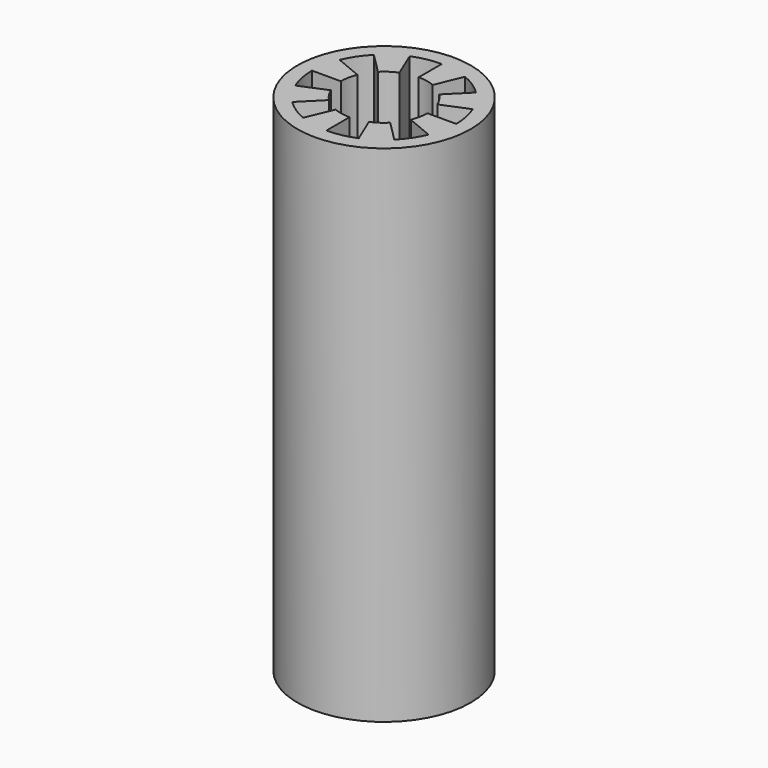
from build123d import *

# Parameters (mm, degrees)
F0_R     = 6
F1_DEPTH = 35


with BuildPart() as f1:
    # F0 (on Top) → F1 (new body)
    with BuildSketch(Plane.XY):
        Circle(F0_R)
        with BuildLine():
            ThreePointArc((4.6228711056, 1.9050099058), (4.9048116951, 0.9709903378), (5, 0))
            ThreePointArc((5, 0), (4.9033062853, -0.9785639848), (4.6169650111, -1.9192795748))
            ThreePointArc((4.6169650111, -1.9192795748), (4.1556339553, -2.7804147945), (3.5356607073, -3.5354071))
            ThreePointArc((3.5356607073, -3.5354071), (2.7868523196, -4.1513195672), (1.9332513544, -4.6111320954))
            ThreePointArc((1.9332513544, -4.6111320954), (0.9859866944, -4.9018190744), (0, -5))
            ThreePointArc((0, -5), (-0.9785639848, -4.9033062853), (-1.9192795748, -4.6169650111))
            ThreePointArc((-1.9192795748, -4.6169650111), (-2.7804147945, -4.1556339553), (-3.5354071, -3.5356607073))
            ThreePointArc((-3.5354071, -3.5356607073), (-4.1513195672, -2.7868523196), (-4.6111320954, -1.9332513544))
            ThreePointArc((-4.6111320954, -1.9332513544), (-4.9018190744, -0.9859866944), (-5, 0))
            ThreePointArc((-5, 0), (-4.9033062853, 0.9785639848), (-4.6169650111, 1.9192795748))
            ThreePointArc((-4.6169650111, 1.9192795748), (-4.1556339553, 2.7804147945), (-3.5356607073, 3.5354071))
            ThreePointArc((-3.5356607073, 3.5354071), (-2.7817807706, 4.1547196951), (-1.9219836353, 4.61584))
            ThreePointArc((-1.9219836353, 4.61584), (-0.98, 4.9030194778), (0, 5))
            ThreePointArc((0, 5), (0.9785639848, 4.9033062853), (1.9192795748, 4.6169650111))
            ThreePointArc((1.9192795748, 4.6169650111), (2.7804147945, 4.1556339553), (3.5354071, 3.5356607073))
            ThreePointArc((3.5354071, 3.5356607073), (4.1598234733, 2.7741428714), (4.6228711056, 1.9050099058))
        make_face(mode=Mode.SUBTRACT)
        with BuildLine():
            Line((-3.5356607073, 3.5354071), (-2.1213964244, 2.12124426))
            ThreePointArc((-2.1213964244, 2.12124426), (-1.6690684623, 2.492831817), (-1.1531901812, 2.769504))
            Line((-1.1531901812, 2.769504), (-1.9219836353, 4.61584))
            ThreePointArc((-1.9219836353, 4.61584), (-2.7817807706, 4.1547196951), (-3.5356607073, 3.5354071))
        make_face()
        with BuildLine():
            Line((1.1515677449, 2.7701790067), (1.9192795748, 4.6169650111))
            ThreePointArc((1.9192795748, 4.6169650111), (0.9785639848, 4.9033062853), (0, 5))
            Line((0, 5), (0, 3))
            ThreePointArc((0, 3), (0.5871383909, 2.9419837712), (1.1515677449, 2.7701790067))
        make_face()
        with BuildLine():
            Line((2.7737226634, 1.1430059435), (4.6228711056, 1.9050099058))
            ThreePointArc((4.6228711056, 1.9050099058), (4.1598234733, 2.7741428714), (3.5354071, 3.5356607073))
            Line((3.5354071, 3.5356607073), (2.12124426, 2.1213964244))
            ThreePointArc((2.12124426, 2.1213964244), (2.495894084, 1.6644857228), (2.7737226634, 1.1430059435))
        make_face()
        with BuildLine():
            Line((-5, 0), (-3, 0))
            ThreePointArc((-3, 0), (-2.9419837712, 0.5871383909), (-2.7701790067, 1.1515677449))
            Line((-2.7701790067, 1.1515677449), (-4.6169650111, 1.9192795748))
            ThreePointArc((-4.6169650111, 1.9192795748), (-4.9033062853, 0.9785639848), (-5, 0))
        make_face()
        with BuildLine():
            ThreePointArc((1.9332513544, -4.6111320954), (2.7868523196, -4.1513195672), (3.5356607073, -3.5354071))
            Line((3.5356607073, -3.5354071), (2.1213964244, -2.12124426))
            ThreePointArc((2.1213964244, -2.12124426), (1.6721113917, -2.4907917403), (1.1599508126, -2.7666792572))
            Line((1.1599508126, -2.7666792572), (1.9332513544, -4.6111320954))
        make_face()
        with BuildLine():
            Line((0, -5), (0, -3))
            ThreePointArc((0, -3), (-0.5871383909, -2.9419837712), (-1.1515677449, -2.7701790067))
            Line((-1.1515677449, -2.7701790067), (-1.9192795748, -4.6169650111))
            ThreePointArc((-1.9192795748, -4.6169650111), (-0.9785639848, -4.9033062853), (0, -5))
        make_face()
        with BuildLine():
            Line((-3.5354071, -3.5356607073), (-2.12124426, -2.1213964244))
            ThreePointArc((-2.12124426, -2.1213964244), (-2.4907917403, -1.6721113917), (-2.7666792572, -1.1599508126))
            Line((-2.7666792572, -1.1599508126), (-4.6111320954, -1.9332513544))
            ThreePointArc((-4.6111320954, -1.9332513544), (-4.1513195672, -2.7868523196), (-3.5354071, -3.5356607073))
        make_face()
        with BuildLine():
            ThreePointArc((4.6169650111, -1.9192795748), (4.9033062853, -0.9785639848), (5, 0))
            Line((5, 0), (3, 0))
            ThreePointArc((3, 0), (2.9419837712, -0.5871383909), (2.7701790067, -1.1515677449))
            Line((2.7701790067, -1.1515677449), (4.6169650111, -1.9192795748))
        make_face()
    extrude(amount=F1_DEPTH)


solid = f1.part
